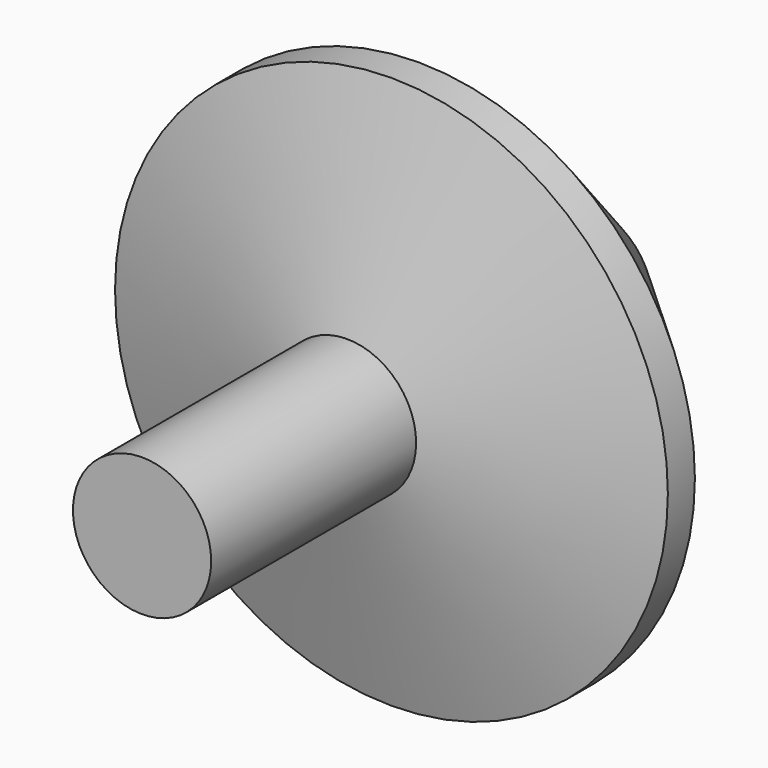
from build123d import *


with BuildPart() as f1:
    # F0 (on Top) → F1 (revolve)
    with BuildSketch(Plane.XY):
        Polygon((4, 0), (0, 0), (0, -32), (4, -32), (4, -22.828427), (4, -17.171573), (16, -13.956183), (16, -12), align=None)
        Polygon((4, -13.030468), (4, -5.656854), (9.815386, -11.47224), align=None, mode=Mode.SUBTRACT)
        Polygon((9.815386, -11.47224), (4, -5.656854), (4, -13.030468), align=None)
    revolve(axis=Axis((0, -16, 0), (0, -1, 0)))


solid = f1.part
